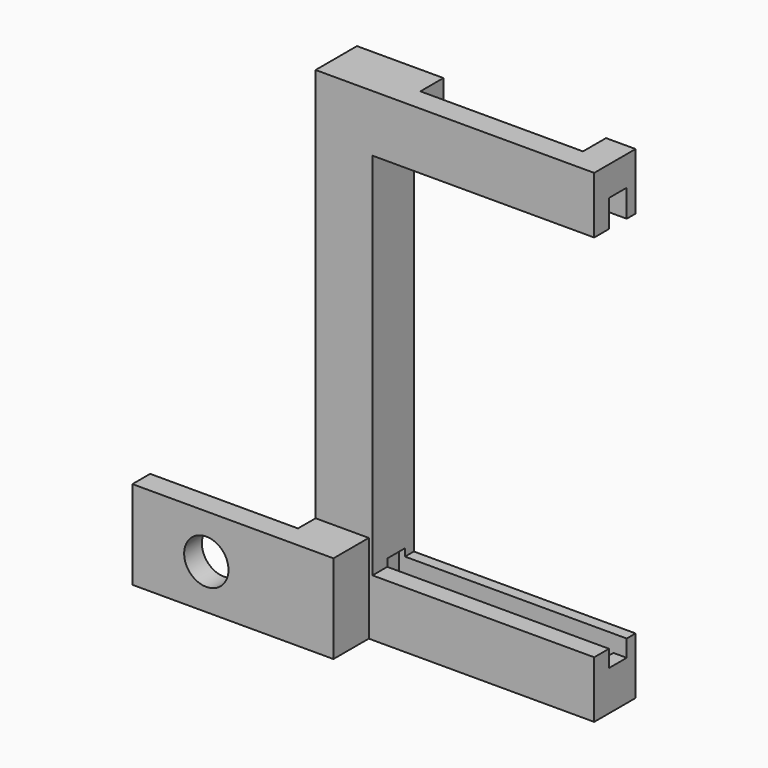
from build123d import *

# Parameters (mm, degrees)
PAD_DEPTH       = 12
SKETCH001_R     = 3
HOLE_DEPTH      = 13.001
PAD001_DEPTH    = 7
SKETCH003_W     = 29
SKETCH003_H     = 3
POCKET_DEPTH    = 6
SKETCH004_W     = 29
SKETCH004_H     = 3
POCKET001_DEPTH = 6
SKETCH005_W     = 22
SKETCH005_H     = 10.958168
POCKET002_DEPTH = 6
SKETCH006_W     = 1.8213907522
SKETCH006_H     = 3
POCKET003_DEPTH = 5
SKETCH007_W     = 1.8213907522
SKETCH007_H     = 3
POCKET004_DEPTH = 5


with BuildPart() as part:
    # Sketch → Pad (new body)
    with BuildSketch(Plane.XY):
        Polygon((-20, -10.0810480488), (7.2, -10.0810480488), (7.2, 2.9189519512), (0, 2.9189519512), (0, -7.0810480488), (-20, -7.0810480488), align=None)
    extrude(amount=PAD_DEPTH)

    # Sketch001 (on Face1 of Pad) → Hole (cut, through all)
    with BuildSketch(Plane.XZ.offset(10.0810480488)):
        with Locations((-10, 6)):
            Circle(SKETCH001_R)
    extrude(amount=-HOLE_DEPTH, mode=Mode.SUBTRACT)

    # Sketch002 → Pad001 (join)
    with BuildSketch(Plane.XZ.offset(-2.9)):
        Polygon((37.7, 7.7), (37.7, 0), (0, 0), (0, 11.991246), (0, 65.4), (37.7, 65.4), (37.7, 57.7), (7.7, 57.7), (7.7, 7.7), align=None)
    extrude(amount=PAD001_DEPTH)

    # Sketch003 (on Face15 of Pad001) → Pocket (cut)
    with BuildSketch(Plane(origin=(0, 6, 2.7), x_dir=(1, 0, 0), z_dir=(0, 0, -1))):
        with Locations((21.3996930994, 6.1)):
            Rectangle(SKETCH003_W, SKETCH003_H)
    extrude(amount=-POCKET_DEPTH, mode=Mode.SUBTRACT)

    # Sketch004 (on Face17 of Pocket) → Pocket001 (cut)
    with BuildSketch(Plane(origin=(54, -65, 62.9), x_dir=(1, 0, 0), z_dir=(0, 0, 1))):
        with Locations((-32.6213907522, 64.9)):
            Rectangle(SKETCH004_W, SKETCH004_H)
    extrude(amount=-POCKET001_DEPTH, mode=Mode.SUBTRACT)

    # Sketch005 → Pocket002 (cut)
    with BuildSketch(Plane.XZ.offset(1)):
        with Locations((22.7, 62.096554)):
            Rectangle(SKETCH005_W, SKETCH005_H)
    extrude(amount=-POCKET002_DEPTH, mode=Mode.SUBTRACT)

    # Sketch006 → Pocket003 (cut)
    with BuildSketch(Plane.XY.offset(5.4)):
        with Locations((36.7893046239, -0.1)):
            Rectangle(SKETCH006_W, SKETCH006_H)
    extrude(amount=POCKET003_DEPTH, mode=Mode.SUBTRACT)

    # Sketch007 → Pocket004 (cut)
    with BuildSketch(Plane.XY.offset(61.4)):
        with Locations((36.7893046239, -0.1)):
            Rectangle(SKETCH007_W, SKETCH007_H)
    extrude(amount=-POCKET004_DEPTH, mode=Mode.SUBTRACT)


solid = part.part
